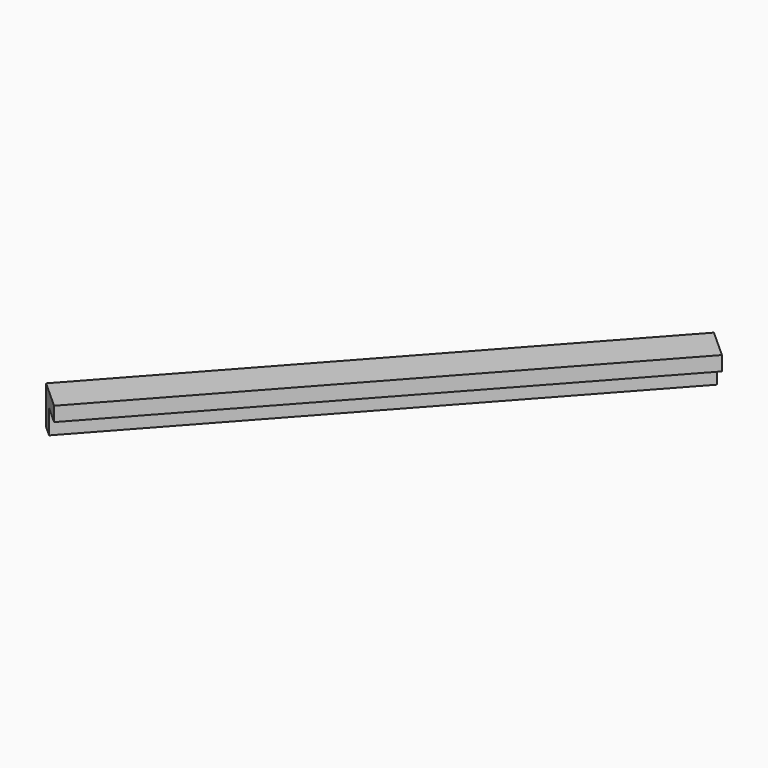
from build123d import *

# Parameters (mm, degrees)
BOX195_W               = 0.8
BOX195_H               = 11
BOX195_DEPTH           = 0.8
BOX196_W               = 0.8
BOX196_H               = 11
BOX196_DEPTH           = 0.8
CUT101_PLACEMENT_ANGLE = 138


with BuildPart() as cubo195:
    # Box195 → Box195 (new body)
    with BuildSketch(Plane.XY):
        with Locations((0.4, 5.5)):
            Rectangle(BOX195_W, BOX195_H)
    extrude(amount=BOX195_DEPTH)


with BuildPart() as obj1:
    # Box196 → Box196 (new body)
    with BuildSketch(Plane(origin=(0.3, 0, 0.3), x_dir=(1, 0, 0), z_dir=(0, 0, 1))):
        with Locations((0.4, 5.5)):
            Rectangle(BOX196_W, BOX196_H)
    extrude(amount=BOX196_DEPTH)

    # Cut101: cut Cubo195
    add(cubo195.part, mode=Mode.SUBTRACT)


with BuildPart() as obj1_1:
    # Cut101 placement: moved
    add(obj1.part.moved(Location((-76, 220.2, -1.45))).rotate(Axis((-76, 220.2, -1.45), (0, 0, 1)), CUT101_PLACEMENT_ANGLE))


solid = obj1_1.part
